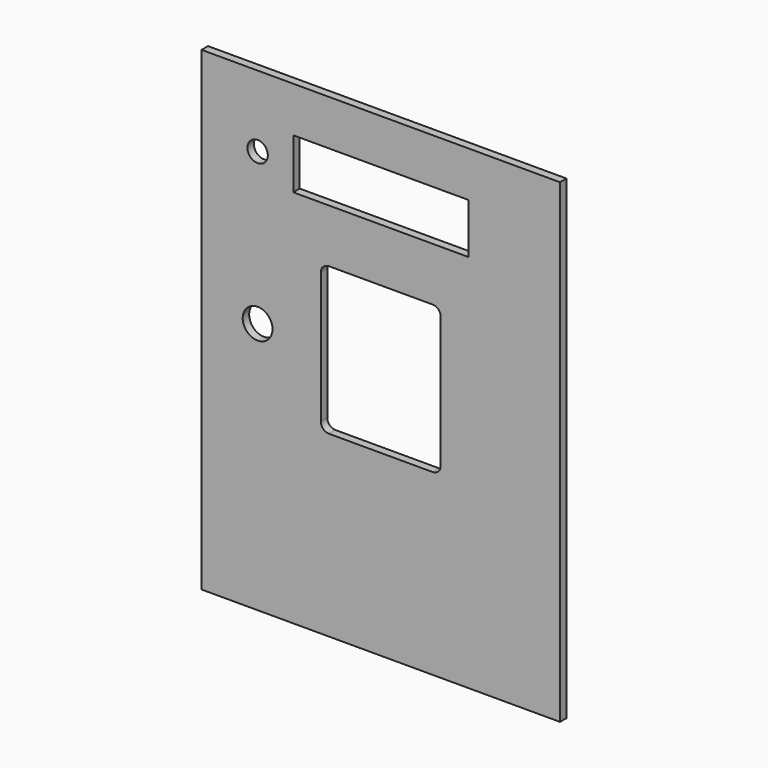
from build123d import *

# Parameters (mm, degrees)
F0_W     = 140.462
F0_H     = 186.182
F1_DEPTH = 3.175
F2_W     = 68.58
F2_H     = 19.685
F2_R     = 4.0005
F2_R_2   = 5.842
F3_DEPTH = 3.176


with BuildPart() as f1:
    # F0 (on Front) → F1 (new body)
    with BuildSketch(Plane.XZ):
        Rectangle(F0_W, F0_H)
    extrude(amount=F1_DEPTH)

    # F2 (on face) → F3 (cut, through all)
    with BuildSketch(Plane.XZ.offset(3.175)):
        with BuildLine():
            Line((20.32, 34.671), (-20.32, 34.671))
            ThreePointArc((-20.32, 34.671), (-22.565064, 33.741064), (-23.495, 31.496))
            Line((-23.495, 31.496), (-23.495, -19.939))
            ThreePointArc((-23.495, -19.939), (-22.565064, -22.184064), (-20.32, -23.114))
            Line((-20.32, -23.114), (20.32, -23.114))
            ThreePointArc((20.32, -23.114), (22.565064, -22.184064), (23.495, -19.939))
            Line((23.495, -19.939), (23.495, 31.496))
            ThreePointArc((23.495, 31.496), (22.565064, 33.741064), (20.32, 34.671))
        make_face()
        with Locations((0, 65.4685)):
            Rectangle(F2_W, F2_H)
        with Locations((-48.26, 65.151)):
            Circle(F2_R)
        with Locations((-48.26, 5.7658)):
            Circle(F2_R_2)
    extrude(amount=-F3_DEPTH, mode=Mode.SUBTRACT)


solid = f1.part
